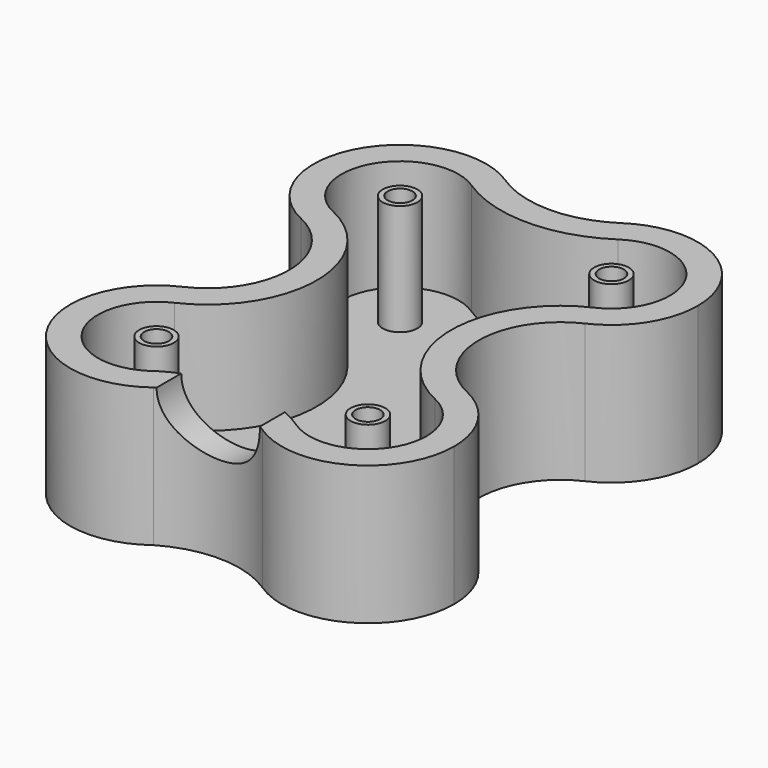
from build123d import *

# Parameters (mm, degrees)
F1_DEPTH = 12.7
F2_T     = -2.54
F3_R     = 1.5875
F4_DEPTH = 10.16
F5_D     = 2.2606
F5_DEPTH = 10.161
F6_D     = 2.2606
F6_DEPTH = 10.161
F7_R     = 4.7625
F8_DEPTH = 25.4


with BuildPart() as f1:
    # F0 (on Top) → F1 (new body)
    with BuildSketch(Plane.XY):
        with BuildLine():
            ThreePointArc((-14.6767156663, 29.4530092287), (-12.0777332251, 26.6050755519), (-11.136649862, 22.8661187375))
            ThreePointArc((-11.136649862, 22.8661187375), (-14.7855906965, 16.2084748129), (-22.3607508211, 15.7025687681))
            ThreePointArc((-22.3607508211, 15.7025687681), (-18.0453134926, 8.9409904355), (-22.3607508211, 2.1794121029))
            ThreePointArc((-22.3607508211, 2.1794121029), (-14.7855906965, 1.673506058), (-11.136649862, -4.9841378665))
            ThreePointArc((-11.136649862, -4.9841378665), (-11.9647424889, -8.5047751532), (-14.2753729744, -11.287150229))
            ThreePointArc((-14.2753729744, -11.287150229), (-9.1296413708, -9.9591111779), (-4.06321014, -11.5633293799))
            ThreePointArc((-4.06321014, -11.5633293799), (-6.584769511, -1.1252359292), (3.6324394001, 2.1794121029))
            ThreePointArc((3.6324394001, 2.1794121029), (-0.6829979284, 8.9409904355), (3.6324394001, 15.7025687681))
            ThreePointArc((3.6324394001, 15.7025687681), (-6.588170937, 19.0132972903), (-4.0515957548, 29.4530092287))
            ThreePointArc((-4.0515957548, 29.4530092287), (-9.3641557105, 27.8546574286), (-14.6767156663, 29.4530092287))
        make_face()
        with BuildLine():
            ThreePointArc((-22.3607508211, 15.7025687681), (-14.7855906965, 16.2084748129), (-11.136649862, 22.8661187375))
            ThreePointArc((-11.136649862, 22.8661187375), (-12.0777332251, 26.6050755519), (-14.6767156663, 29.4530092287))
            ThreePointArc((-14.6767156663, 29.4530092287), (-25.9292475994, 26.7189401846), (-22.3607508211, 15.7025687681))
        make_face()
        with BuildLine():
            ThreePointArc((8.2044268003, 22.8661187375), (4.0453394351, 29.823079554), (-4.0515957548, 29.4530092287))
            ThreePointArc((-4.0515957548, 29.4530092287), (-6.588170937, 19.0132972903), (3.6324394001, 15.7025687681))
            ThreePointArc((3.6324394001, 15.7025687681), (6.9640265452, 18.6170153923), (8.2044268003, 22.8661187375))
        make_face()
        with BuildLine():
            ThreePointArc((-11.136649862, -4.9841378665), (-14.7855906965, 1.673506058), (-22.3607508211, 2.1794121029))
            ThreePointArc((-22.3607508211, 2.1794121029), (-25.8060038773, -9.0496593551), (-14.2753729744, -11.287150229))
            ThreePointArc((-14.2753729744, -11.287150229), (-11.9647424889, -8.5047751532), (-11.136649862, -4.9841378665))
        make_face()
        with BuildLine():
            ThreePointArc((8.2044268003, -4.9841378665), (6.9640265452, -0.7350345214), (3.6324394001, 2.1794121029))
            ThreePointArc((3.6324394001, 2.1794121029), (-6.584769511, -1.1252359292), (-4.06321014, -11.5633293799))
            ThreePointArc((-4.06321014, -11.5633293799), (4.0392009389, -11.9443942747), (8.2044268003, -4.9841378665))
        make_face()
    extrude(amount=F1_DEPTH)

    # F2
    f2_openings = [f1.faces().sort_by_distance(p)[0] for p in [
        (-9.363943, 8.943821, 12.7),
    ]]
    offset(amount=F2_T, openings=f2_openings, kind=Kind.INTERSECTION)

    # F3 (on face) → F4 (join, through all)
    with BuildSketch(Plane.XY.offset(2.54)):
        with Locations((-19.0346940417, 22.8661187375)):
            Circle(F3_R)
        with Locations((0.3063826207, 22.8661187375)):
            Circle(F3_R)
        with Locations((-19.0346940417, -4.9841378665)):
            Circle(F3_R)
        with Locations((0.3063826207, -4.9841378665)):
            Circle(F3_R)
    extrude(amount=F4_DEPTH)

    # F5 (through all, one way)
    with BuildSketch(Plane(origin=(0, 0, 2.54), x_dir=(1, 0, 0), z_dir=(0, 0, -1))):
        with Locations((-19.0346940417, -22.8661187375)):
            Circle(F5_D / 2)
    extrude(amount=-F5_DEPTH, mode=Mode.SUBTRACT)

    # F6 (through all, one way)
    with BuildSketch(Plane(origin=(0, 0, 2.54), x_dir=(1, 0, 0), z_dir=(0, 0, -1))):
        with Locations((0.3063826207, -22.8661187375), (0.3063826207, 4.9841378665), (-19.0346940417, 4.9841378665)):
            Circle(F6_D / 2)
    extrude(amount=-F6_DEPTH, mode=Mode.SUBTRACT)

    # F7 (on Front) → F8 (cut)
    with BuildSketch(Plane.XZ):
        with Locations((-9.3144346029, 12.7)):
            Circle(F7_R)
    extrude(amount=F8_DEPTH, mode=Mode.SUBTRACT)


solid = f1.part
